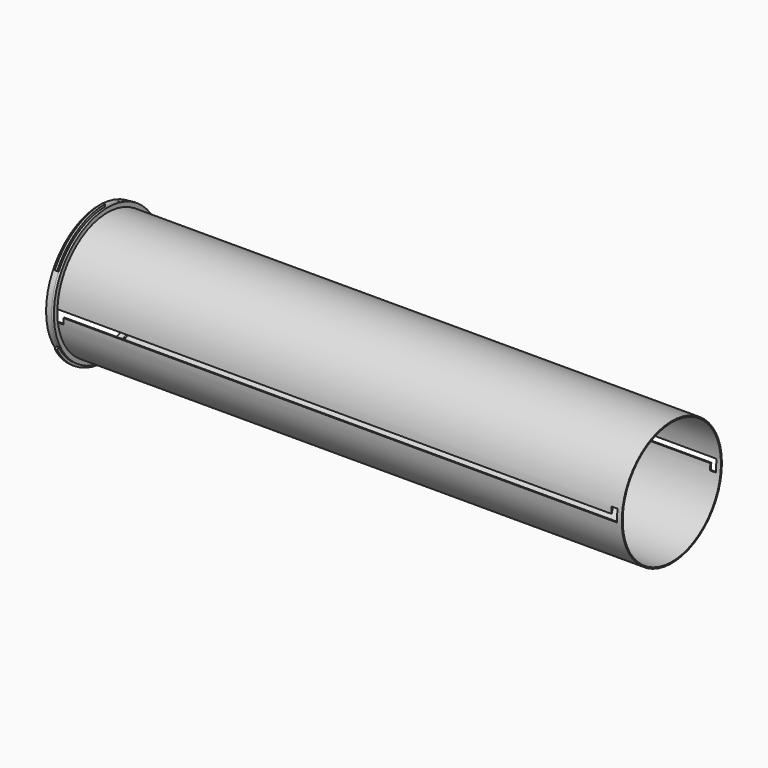
from build123d import *

# Parameters (mm, degrees)
F0_R      = 26.625
F0_R_2    = 26.125
F1_DEPTH  = 240
F2_W      = 0.7316432893
F2_H      = 1.25
F3_DEPTH  = 238
F4_W      = 0.6623510725
F4_H      = 2.5
F5_DEPTH  = 238
F0_R_3    = 28.5
F6_DEPTH  = 1
F8_W      = 2.5
F8_H      = 2.6
F9_DEPTH  = 2
F11_W     = 2.5
F11_H     = 2.6
F12_DEPTH = 2
F13_DEPTH = 2
F14_DEPTH = 2
F16_R     = 29.5
F16_R_2   = 26.5
F17_DEPTH = 1
F19_DEPTH = 1
F15_R     = 28.25
F15_R_2   = 26.5
F20_DEPTH = 2.5


with BuildPart() as f1:
    # F0 (on Right) → F1 (new body)
    with BuildSketch(Plane.YZ):
        Circle(F0_R)
        Circle(F0_R_2, mode=Mode.SUBTRACT)
    extrude(amount=F1_DEPTH)

    # F2 (on Right) → F3 (cut)
    with BuildSketch(Plane.YZ):
        with Locations((-26.2591783553, -0.625)):
            Rectangle(F2_W, F2_H)
        with Locations((-26.2591783553, 0.625)):
            Rectangle(F2_W, F2_H)
    extrude(amount=F3_DEPTH, mode=Mode.SUBTRACT)

    # F4 (on Right) → F5 (cut)
    with BuildSketch(Plane.YZ):
        with Locations((26.2938244637, 0)):
            Rectangle(F4_W, F4_H)
    extrude(amount=F5_DEPTH, mode=Mode.SUBTRACT)

    # F0 (on Right) → F6 (join)
    with BuildSketch(Plane.YZ):
        Circle(F0_R_3)
        Circle(F0_R, mode=Mode.SUBTRACT)
    extrude(amount=-F6_DEPTH)

    # F8 (on offset) → F9 (cut)
    with BuildSketch(Plane.XZ.offset(-26.625)):
        with Locations((236.75, -2.55)):
            Rectangle(F8_W, F8_H)
    extrude(amount=F9_DEPTH, mode=Mode.SUBTRACT)

    # F11 (on offset) → F12 (cut)
    with BuildSketch(Plane.XZ.offset(26.625)):
        with Locations((1.25, -2.55)):
            Rectangle(F11_W, F11_H)
    extrude(amount=-F12_DEPTH, mode=Mode.SUBTRACT)

    # F11 (on offset) → F13 (cut)
    with BuildSketch(Plane.XZ.offset(26.625)):
        with Locations((236.75, 2.55)):
            Rectangle(F11_W, F11_H)
    extrude(amount=-F13_DEPTH, mode=Mode.SUBTRACT)

    # F8 (on offset) → F14 (cut)
    with BuildSketch(Plane.XZ.offset(-26.625)):
        with Locations((1.25, 2.55)):
            Rectangle(F8_W, F8_H)
    extrude(amount=F14_DEPTH, mode=Mode.SUBTRACT)

    # F16 (on face) → F17 (join)
    with BuildSketch(Plane(origin=(-1, 0, 0), x_dir=(0, -1, 0), z_dir=(-1, 0, 0))):
        Circle(F16_R)
        Circle(F16_R_2, mode=Mode.SUBTRACT)
    extrude(amount=F17_DEPTH)

    # F18 (on face) → F19 (cut)
    with BuildSketch(Plane(origin=(-2, 0, 0), x_dir=(0, -1, 0), z_dir=(-1, 0, 0))):
        with BuildLine():
            Line((0, 26.5), (0, 29.5))
            ThreePointArc((0, 29.5), (-14.75, 25.5477494116), (-25.5477494116, 14.75))
            Line((-25.5477494116, 14.75), (-22.9496732003, 13.25))
            ThreePointArc((-22.9496732003, 13.25), (-13.25, 22.9496732003), (0, 26.5))
        make_face()
        with BuildLine():
            ThreePointArc((29.5, 0), (28.4948118755, 7.6351618305), (25.5477494116, 14.75))
            Line((25.5477494116, 14.75), (22.9496732003, 13.25))
            ThreePointArc((22.9496732003, 13.25), (25.5970343967, 6.8587046952), (26.5, 0))
            ThreePointArc((26.5, 0), (25.5970343967, -6.8587046952), (22.9496732003, -13.25))
            Line((22.9496732003, -13.25), (25.5477494116, -14.75))
            ThreePointArc((25.5477494116, -14.75), (28.4948118755, -7.6351618305), (29.5, 0))
        make_face()
        with BuildLine():
            ThreePointArc((-25.5477494116, -14.75), (-14.75, -25.5477494116), (0, -29.5))
            Line((0, -29.5), (0, -26.5))
            ThreePointArc((0, -26.5), (-13.25, -22.9496732003), (-22.9496732003, -13.25))
            Line((-22.9496732003, -13.25), (-25.5477494116, -14.75))
        make_face()
    extrude(amount=-F19_DEPTH, mode=Mode.SUBTRACT)

    # F15 (on face) → F20 (join)
    with BuildSketch(Plane(origin=(-1, 0, 0), x_dir=(0, -1, 0), z_dir=(-1, 0, 0))):
        Circle(F15_R)
        Circle(F15_R_2, mode=Mode.SUBTRACT)
    extrude(amount=F20_DEPTH)


solid = f1.part
